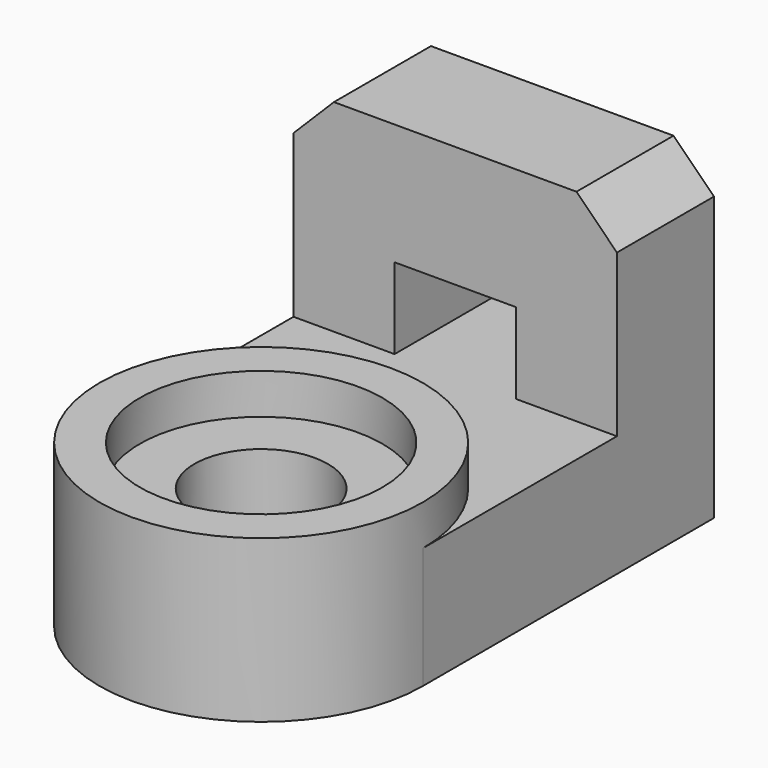
from build123d import *

# Parameters (mm, degrees)
CYLINDER_R        = 1.65
CYLINDER_DEPTH    = 10
BOX002_W          = 3
BOX002_H          = 3
BOX002_DEPTH      = 5
BOX001_W          = 8
BOX001_H          = 3
BOX001_DEPTH      = 8
CHAMFER_SIZE      = 1
CYLINDER004_R     = 3
CYLINDER004_DEPTH = 1
CYLINDER001_R     = 4
CYLINDER001_DEPTH = 4
BOX_W             = 8
BOX_H             = 10
BOX_DEPTH         = 3
CHAMFER004_SIZE   = 1


with BuildPart() as cylinder:
    # Cylinder → Cylinder (new body)
    with BuildSketch(Plane.XY):
        Circle(CYLINDER_R)
    extrude(amount=CYLINDER_DEPTH)


with BuildPart() as cube002:
    # Box002 → Box002 (new body)
    with BuildSketch(Plane(origin=(-1.5, 6, 0), x_dir=(1, 0, 0), z_dir=(0, 0, 1))):
        with Locations((1.5, 1.5)):
            Rectangle(BOX002_W, BOX002_H)
    extrude(amount=BOX002_DEPTH)


with BuildPart() as chamfer_body:
    # Box001 → Box001 (new body)
    with BuildSketch(Plane(origin=(-4, 6, 0), x_dir=(1, 0, 0), z_dir=(0, 0, 1))):
        with Locations((4, 1.5)):
            Rectangle(BOX001_W, BOX001_H)
    extrude(amount=BOX001_DEPTH)

    # Cut: cut Cube002
    add(cube002.part, mode=Mode.SUBTRACT)

    # Chamfer
    chamfer_edges = [chamfer_body.edges().sort_by_distance(p)[0] for p in [
        (-4, 7.5, 8),
        (4, 7.5, 8),
    ]]
    chamfer(chamfer_edges, length=CHAMFER_SIZE)


with BuildPart() as cylinder004:
    # Cylinder004 → Cylinder004 (new body)
    with BuildSketch(Plane.XY.offset(3)):
        Circle(CYLINDER004_R)
    extrude(amount=CYLINDER004_DEPTH)


with BuildPart() as cut001:
    # Cylinder001 → Cylinder001 (new body)
    with BuildSketch(Plane.XY):
        Circle(CYLINDER001_R)
    extrude(amount=CYLINDER001_DEPTH)

    # Cut001: cut Cylinder004
    add(cylinder004.part, mode=Mode.SUBTRACT)


with BuildPart() as cut005:
    # Box → Box (new body)
    with BuildSketch(Plane(origin=(-4, 0, 0), x_dir=(1, 0, 0), z_dir=(0, 0, 1))):
        with Locations((4, 5)):
            Rectangle(BOX_W, BOX_H)
    extrude(amount=BOX_DEPTH)

    # Chamfer004
    chamfer004_edges = [cut005.edges().sort_by_distance(p)[0] for p in [
        (-4, 10, 1.5),
        (4, 10, 1.5),
    ]]
    chamfer(chamfer004_edges, length=CHAMFER004_SIZE)

    # Fusion: union Chamfer body, Cut001
    add(chamfer_body.part)
    add(cut001.part)

    # Cut005: cut Cylinder
    add(cylinder.part, mode=Mode.SUBTRACT)


solid = cut005.part
